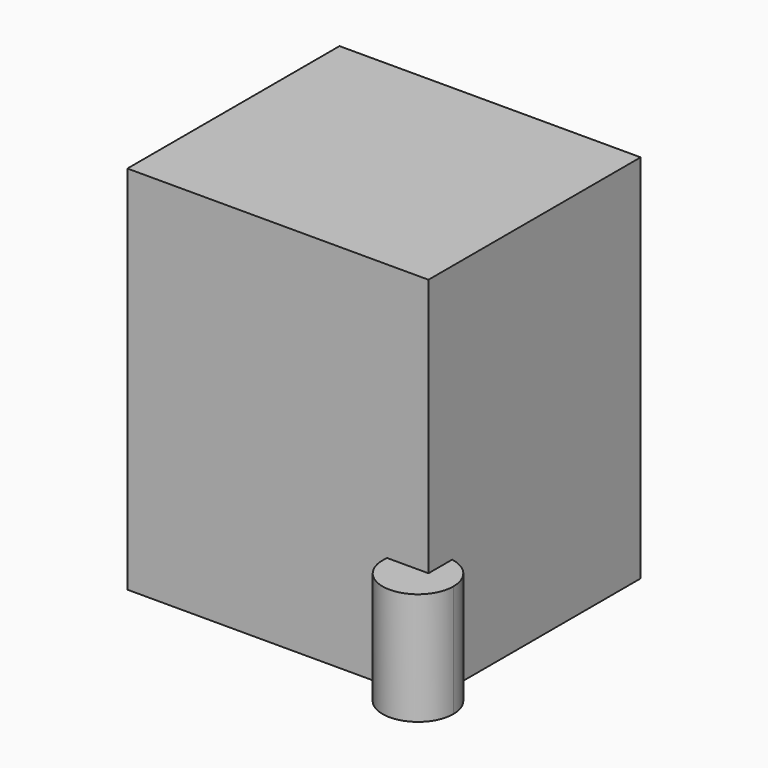
from build123d import *

# Parameters (mm, degrees)
F1_DEPTH      = 330
F2_DEPTH      = 100
F4_DEPTH      = 72.5
F4_DEPTH_BACK = 42.5


with BuildPart() as f1:
    # F0 (on Top) → F1 (new body)
    with BuildSketch(Plane.XY):
        with BuildLine():
            Line((-137, 101), (-137, -135))
            Line((-137, -135), (94.248996, -135))
            ThreePointArc((94.248996, -135), (107.058017, -114.066985), (131, -108.677774))
            Line((131, -108.677774), (131, 101))
            Line((131, 101), (-137, 101))
        make_face()
        with BuildLine():
            ThreePointArc((131, -108.677774), (107.058017, -114.066985), (94.248996, -135))
            Line((94.248996, -135), (131, -135))
            Line((131, -135), (131, -108.677774))
        make_face()
    extrude(amount=F1_DEPTH)

    # F0 (on Top) → F2 (join)
    with BuildSketch(Plane.XY):
        with BuildLine():
            Line((131, -135), (94.248996, -135))
            ThreePointArc((94.248996, -135), (123.055497, -171.08863), (156.9, -139.676))
            ThreePointArc((156.9, -139.676), (149.572815, -119.478847), (131, -108.677774))
            Line((131, -108.677774), (131, -135))
        make_face()
    extrude(amount=F2_DEPTH)

    # F3 (on Front) → F4 (join, two sides)
    with BuildSketch(Plane.XZ) as f4_sk:
        Polygon((-137, 44.192641), (-151.07132, 30.12132), (-148.95, 28), (-134.87868, 42.07132), align=None)
    extrude(amount=F4_DEPTH)
    extrude(f4_sk.sketch, amount=-F4_DEPTH_BACK)


solid = f1.part
